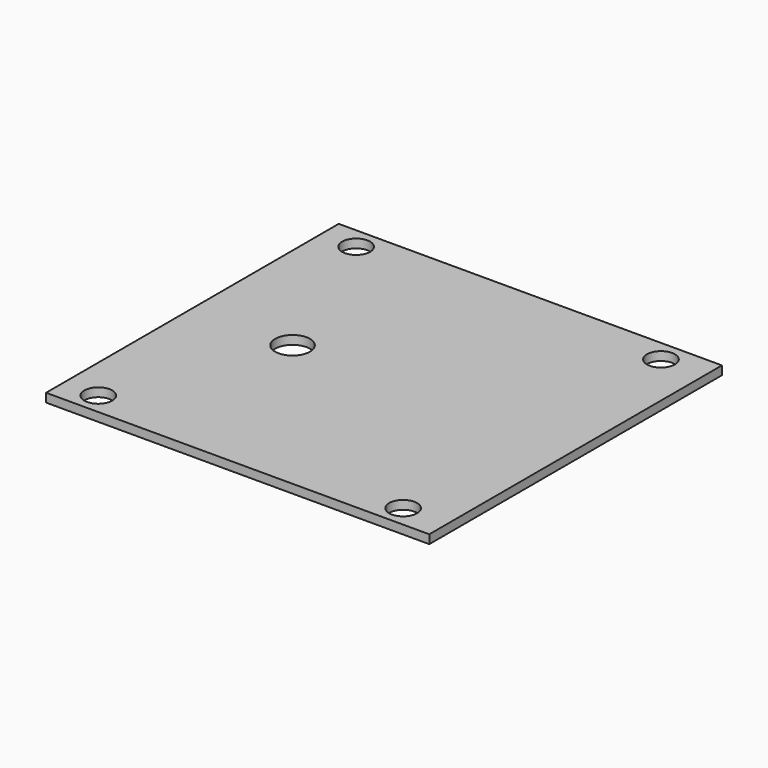
from build123d import *

# Parameters (mm, degrees)
CYLINDER034_R     = 1.6
CYLINDER034_DEPTH = 10
CYLINDER035_R     = 1.6
CYLINDER035_DEPTH = 10
CYLINDER036_R     = 1.6
CYLINDER036_DEPTH = 10
CYLINDER037_R     = 1.6
CYLINDER037_DEPTH = 10
CYLINDER038_R     = 2
CYLINDER038_DEPTH = 10
BOX011_W          = 44
BOX011_H          = 42
BOX011_DEPTH      = 1


with BuildPart() as cylinder034:
    # Cylinder034 → Cylinder034 (new body)
    with BuildSketch(Plane(origin=(-7.5, -18.5, 0), x_dir=(1, 0, 0), z_dir=(0, 0, 1))):
        Circle(CYLINDER034_R)
    extrude(amount=CYLINDER034_DEPTH)


with BuildPart() as cylinder035:
    # Cylinder035 → Cylinder035 (new body)
    with BuildSketch(Plane(origin=(-7.5, 18.5, 0), x_dir=(1, 0, 0), z_dir=(0, 0, 1))):
        Circle(CYLINDER035_R)
    extrude(amount=CYLINDER035_DEPTH)


with BuildPart() as cylinder036:
    # Cylinder036 → Cylinder036 (new body)
    with BuildSketch(Plane(origin=(27.5, -18.5, 0), x_dir=(1, 0, 0), z_dir=(0, 0, 1))):
        Circle(CYLINDER036_R)
    extrude(amount=CYLINDER036_DEPTH)


with BuildPart() as cylinder037:
    # Cylinder037 → Cylinder037 (new body)
    with BuildSketch(Plane(origin=(27.5, 18.5, 0), x_dir=(1, 0, 0), z_dir=(0, 0, 1))):
        Circle(CYLINDER037_R)
    extrude(amount=CYLINDER037_DEPTH)


with BuildPart() as fusion021:
    # Cylinder038 → Cylinder038 (new body)
    with BuildSketch(Plane.XY):
        Circle(CYLINDER038_R)
    extrude(amount=CYLINDER038_DEPTH)

    # Fusion021: union Cylinder034, Cylinder035, Cylinder036, Cylinder037
    add(cylinder034.part)
    add(cylinder035.part)
    add(cylinder036.part)
    add(cylinder037.part)


with BuildPart() as copperplate:
    # Box011 → Box011 (new body)
    with BuildSketch(Plane(origin=(-11.5, -21, 1), x_dir=(1, 0, 0), z_dir=(0, 0, 1))):
        with Locations((22, 21)):
            Rectangle(BOX011_W, BOX011_H)
    extrude(amount=BOX011_DEPTH)

    # Cut010: cut Fusion021
    add(fusion021.part, mode=Mode.SUBTRACT)


with BuildPart() as copperplate_1:
    # Cut010 placement: moved
    add(copperplate.part.moved(Location((0, 0, 4))))


solid = copperplate_1.part
